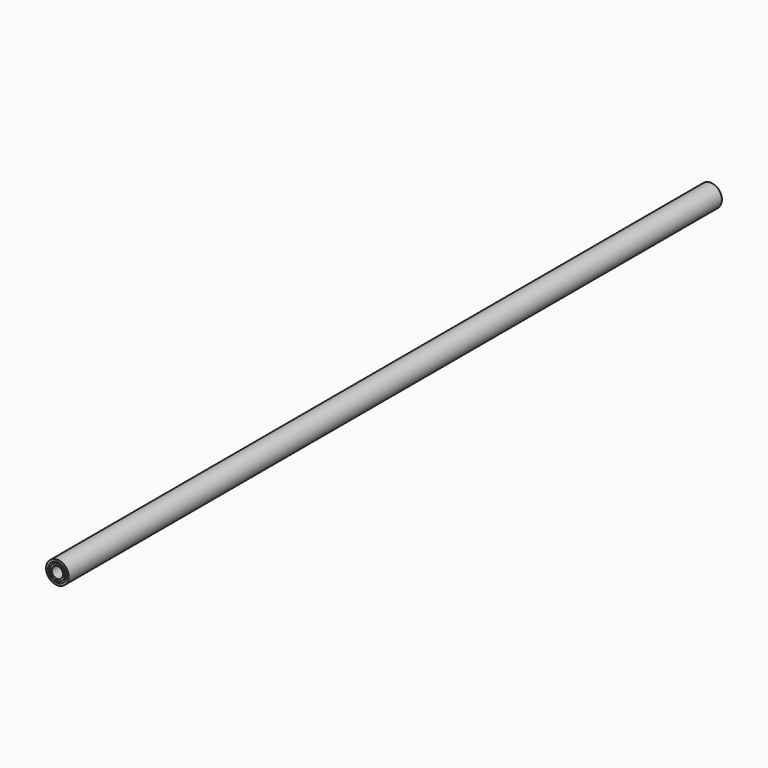
from build123d import *

# Parameters (mm, degrees)
F2_R     = 22.225
F2_R_2   = 20.6375
F4_DEPTH = 914.4
F1_R     = 22.225
F1_R_2   = 20.6375
F5_DEPTH = 914.4
F0_R     = 25.4
F0_R_2   = 22.225
F6_DEPTH = 914.4
F3_R     = 16.7005
F3_R_2   = 12.7
F7_DEPTH = 914.4


with BuildPart() as f4:
    # F2 (on Front) → F4 (new body, symmetric)
    with BuildSketch(Plane.XZ):
        Circle(F2_R)
        Circle(F2_R_2, mode=Mode.SUBTRACT)
    extrude(amount=F4_DEPTH, both=True)


with BuildPart() as f5:
    # F1 (on Front) → F5 (new body, symmetric)
    with BuildSketch(Plane.XZ):
        Circle(F1_R)
        Circle(F1_R_2, mode=Mode.SUBTRACT)
    extrude(amount=F5_DEPTH, both=True)


with BuildPart() as f6:
    # F0 (on Front) → F6 (new body, symmetric)
    with BuildSketch(Plane.XZ):
        Circle(F0_R)
        Circle(F0_R_2, mode=Mode.SUBTRACT)
    extrude(amount=F6_DEPTH, both=True)


with BuildPart() as f7:
    # F3 (on Front) → F7 (new body, symmetric)
    with BuildSketch(Plane.XZ):
        Circle(F3_R)
        Circle(F3_R_2, mode=Mode.SUBTRACT)
    extrude(amount=F7_DEPTH, both=True)


solid = Compound([f4.part, f5.part, f6.part, f7.part])
